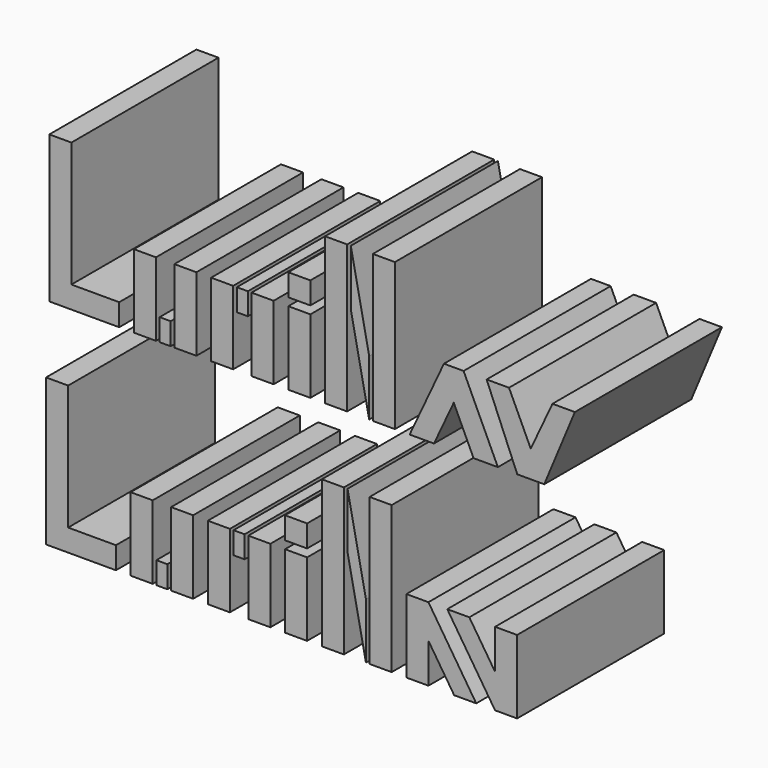
from build123d import *

# Parameters (mm, degrees)
F0_W     = 6.5
F0_H     = 3
F0_W_2   = 1.5
F0_W_3   = 3
F0_H_2   = 10
F0_H_3   = 20
F1_DEPTH = 25
F2_W     = 6.5
F2_H     = 3
F2_W_2   = 3
F2_H_2   = 10
F2_W_3   = 1.5
F2_H_3   = 20
F2_W_4   = 2.53735
F3_DEPTH = 25


with BuildPart() as f1:
    # F0 (on Front) → F1 (new body)
    with BuildSketch(Plane.XZ):
        Polygon((-34.5, 20), (-37.5, 20), (-37.5, 0), (-34.5, 0), (-34.5, 3), align=None)
        with Locations((-31.25, 1.5)):
            Rectangle(F0_W, F0_H)
        Polygon((-20.5, 3), (-20.5, 0), (-17.5, 0), (-17.5, 10), (-20.5, 10), align=None)
        with Locations((-21.75, 1.5)):
            Rectangle(F0_W_2, F0_H)
        Polygon((-23, 10), (-26, 10), (-26, 0), (-23, 0), (-23, 3), align=None)
        with Locations((-14, 5)):
            Rectangle(F0_W_3, F0_H_2)
        with Locations((-11.25, 8.5)):
            Rectangle(F0_W_2, F0_H)
        with Locations((-8.5, 5)):
            Rectangle(F0_W_3, F0_H_2)
        with Locations((-3.5, 5)):
            Rectangle(F0_W_3, F0_H_2)
        with Locations((1.5, 10)):
            Rectangle(F0_W_3, F0_H_3)
        with Locations((8, 10)):
            Rectangle(F0_W_3, F0_H_3)
        Polygon((11.5, 0), (14.810134, 0), (17.5, 5.768437), (17.5, 10), (16.163077, 10), align=None)
        Polygon((17.5, 10), (17.5, 5.768437), (20.189866, 0), (23.5, 0), (18.836923, 10), align=None)
        Polygon((3.5, 20), (3.5, 12.406483), (6, 0), (6, 7.593517), align=None)
        Polygon((25.015931, 10), (21.969633, 10), (26.136287, 0), (27.969633, 0), (27.969633, 3.665766), align=None)
        Polygon((27.969633, 3.665766), (27.969633, 0), (29.802979, 0), (33.969633, 10), (30.923335, 10), align=None)
        with Locations((-3.5, 12.565389)):
            Rectangle(F0_W_3, F0_H)
    extrude(amount=F1_DEPTH)


with BuildPart() as f3:
    # F2 (on Front) → F3 (new body)
    with BuildSketch(Plane.XZ):
        Polygon((-34.943751, -9.239624), (-37.943751, -9.239624), (-37.943751, -29.239624), (-34.943751, -29.239624), (-34.943751, -26.239624), align=None)
        with Locations((-31.693751, -27.739624)):
            Rectangle(F2_W, F2_H)
        with Locations((-19.443751, -24.239624)):
            Rectangle(F2_W_2, F2_H_2)
        with Locations((-22.193751, -27.739624)):
            Rectangle(F2_W_3, F2_H)
        Polygon((-23.443751, -19.239624), (-26.443751, -19.239624), (-26.443751, -29.239624), (-23.443751, -29.239624), (-23.443751, -26.239624), align=None)
        with Locations((-14.443751, -24.239624)):
            Rectangle(F2_W_2, F2_H_2)
        with Locations((-11.693751, -20.739624)):
            Rectangle(F2_W_3, F2_H)
        with Locations((-8.943751, -24.239624)):
            Rectangle(F2_W_2, F2_H_2)
        with Locations((-3.943751, -24.239624)):
            Rectangle(F2_W_2, F2_H_2)
        with Locations((1.056249, -19.239624)):
            Rectangle(F2_W_2, F2_H_3)
        with Locations((7.556249, -19.239624)):
            Rectangle(F2_W_2, F2_H_3)
        with Locations((12.324924, -24.239624)):
            Rectangle(F2_W_4, F2_H_2)
        Polygon((13.593599, -19.239624), (13.593599, -29.239624), (14.056249, -29.239624), (14.056249, -23.855009), (17.556249, -29.239624), (20.556249, -29.239624), (14.056249, -19.239624), align=None)
        Polygon((3.056249, -9.239624), (3.056249, -16.833141), (5.556249, -29.239624), (5.556249, -21.646108), align=None)
        with Locations((-3.943751, -16.674235)):
            Rectangle(F2_W_2, F2_H)
        Polygon((19.61713, -19.239624), (16.61713, -19.239624), (23.11713, -29.239624), (26.11713, -29.239624), (26.11713, -19.239624), (23.11713, -19.239624), (23.11713, -24.62424), align=None)
    extrude(amount=F3_DEPTH)


solid = Compound([f1.part, f3.part])
